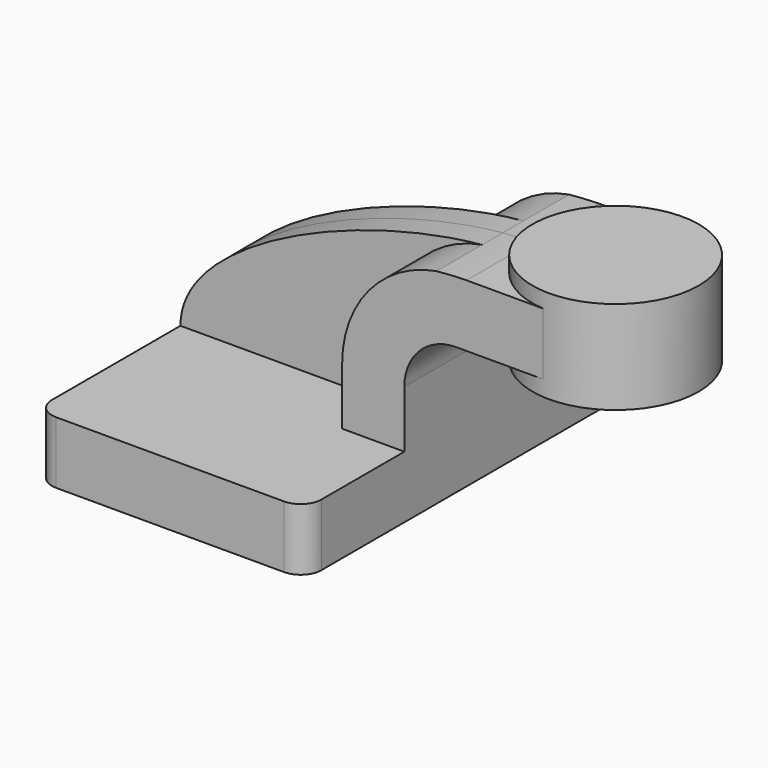
from build123d import *

# Parameters (mm, degrees)
F1_DEPTH = 63.5
F0_W     = 25.332664
F0_H     = 19.05
F2_DEPTH = 25.4
F3_DEPTH = 7.9375
F5_R     = 6.35


with BuildPart() as f1:
    # F0 (on Front) → F1 (new body, symmetric)
    with BuildSketch(Plane.XZ):
        Polygon((-41.275, 9.525), (-41.275, -9.525), (41.275, -9.525), (41.275, 9.525), (22.225, 9.525), align=None)
    extrude(amount=F1_DEPTH, both=True)

    # F0 (on Front) → F2 (join, symmetric)
    with BuildSketch(Plane.XZ):
        with BuildLine():
            Line((22.225, 9.525), (41.275, 9.525))
            Line((41.275, 9.525), (41.275, 27.0002))
            ThreePointArc((41.275, 27.0002), (45.92468, 38.22552), (57.15, 42.8752))
            Line((57.15, 42.8752), (60.325, 42.8752))
            Line((60.325, 42.8752), (60.325, 61.9252))
            add(Edge.make_bspline(
                [(51.116651, 61.400117), (54.290802, 61.705885), (57.372222, 61.884054), (60.325, 61.9252)],
                knots=[105.745107, 105.745107, 105.745107, 105.745107, 114.316845, 114.316845, 114.316845, 114.316845], degree=3))
            ThreePointArc((51.116651, 61.400117), (30.406119, 49.461733), (22.225, 27.0002))
            Line((22.225, 27.0002), (22.225, 9.525))
        make_face()
        with Locations((72.991332, 52.4002)):
            Rectangle(F0_W, F0_H)
    extrude(amount=F2_DEPTH, both=True)

    # F0 (on Front) → F3 (join, symmetric)
    with BuildSketch(Plane.XZ):
        with BuildLine():
            add(Edge.make_bspline(
                [(-41.275, 9.525), (-41.311846, 34.437038), (11.958779, 57.628027), (51.116651, 61.400117)],
                knots=[0, 0, 0, 0, 105.745107, 105.745107, 105.745107, 105.745107], degree=3))
            Line((-41.275, 9.525), (22.225, 9.525))
            Line((22.225, 9.525), (22.225, 27.0002))
            ThreePointArc((22.225, 27.0002), (30.406119, 49.461733), (51.116651, 61.400117))
        make_face()
    extrude(amount=F3_DEPTH, both=True)

    # F0 (on Front) → F4 (revolve)
    with BuildSketch(Plane.XZ):
        Polygon((85.657664, 66.675), (85.657664, 61.9252), (85.657664, 42.8752), (85.657664, 38.1), (111.125, 38.1), (111.125, 66.675), align=None)
    revolve(axis=Axis((85.657664, 0, 52.3875), (0, 0, 1)))

    # F5
    f5_edges = [f1.edges().sort_by_distance(p)[0] for p in [
        (-41.275, -63.5, 0),
        (41.275, -63.5, 0),
        (41.275, 63.5, 0),
        (-41.275, 63.5, 0),
    ]]
    fillet(f5_edges, radius=F5_R)


solid = f1.part
